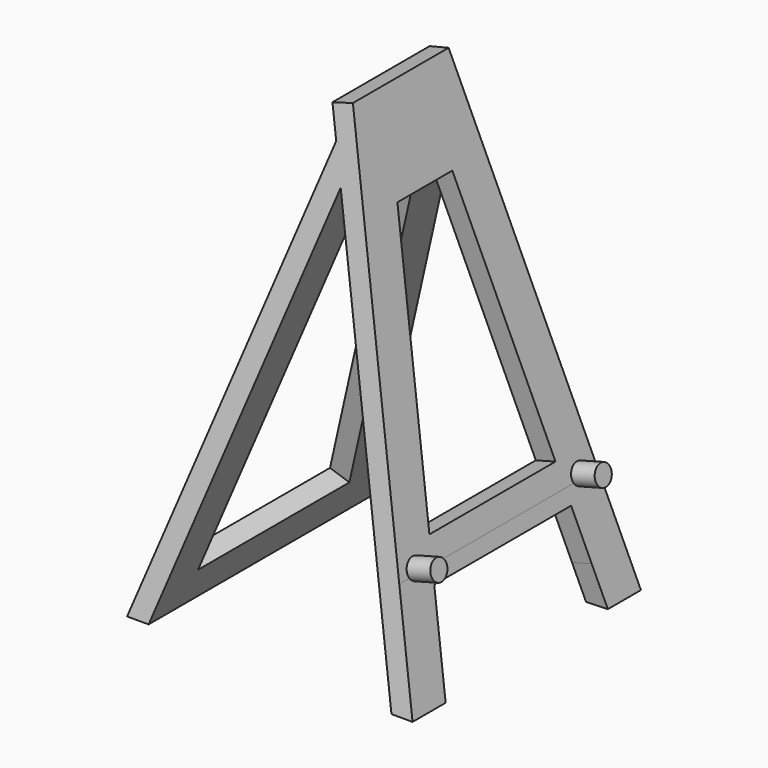
from build123d import *

# Parameters (mm, degrees)
F1_DEPTH = 70
F3_DEPTH = 70.001
F5_DEPTH = 5
F7_DEPTH = 5
F6_R     = 2.5
F8_DEPTH = 6


with BuildPart() as f1:
    # F0 (on Front) → F1 (new body)
    with BuildSketch(Plane.XZ):
        Polygon((64.8236190979, 0), (70, 0), (63.1167820899, 25.6885189599), (39.1096145047, 115.2844881338), (34.2799853733, 113.9903929083), (36.2175250532, 106.7593963813), (0, 0), (5.2798833988, 0), (38.5474912469, 98.0638441664), align=None)
    extrude(amount=F1_DEPTH)

    # F2 (on Right) → F3 (cut, through all)
    with BuildSketch(Plane.YZ):
        Polygon((-31.1044628837, 176.4021748616), (0, 0), (48.4349839389, -5.1851687022), (65.811291337, 203.3304870129), align=None)
        Polygon((-111.5468591452, -12.9745472223), (-70, 0), (-38.8955371163, 176.4021748616), (-111.5468591452, 176.4021748616), align=None)
    extrude(amount=F3_DEPTH, mode=Mode.SUBTRACT)

    # F4 (on face) → F5 (cut)
    with BuildSketch(Plane(origin=(0, 0, 0), x_dir=(0, -1, 0), z_dir=(-0.9469906099, 0, 0.3212612407))):
        Polygon((58.1917434691, 10.0000029223), (42.7067823189, 102.7354300022), (27.2932176811, 102.7354300022), (11.8082565309, 10.0000029223), align=None)
    extrude(amount=-F5_DEPTH, mode=Mode.SUBTRACT)

    # F6 (on face) → F7 (cut)
    with BuildSketch(Plane(origin=(65.3108891325, 0, 17.5), x_dir=(0, 1, 0), z_dir=(0.9659258263, 0, 0.2588190451))):
        Polygon((-10.1440055617, -18.1173331572), (-11.8471934071, -8.1173331572), (-14.0249093092, 4.6687838175), (-55.9750906908, 4.6687838175), (-58.1528065929, -8.1173331572), (-59.8559944383, -18.1173331572), align=None)
        Polygon((-26.5845061685, 78.4104846719), (-43.4154938315, 78.4104846719), (-54.3229984458, 14.3687840231), (-15.6770015542, 14.3687840231), align=None)
    extrude(amount=-F7_DEPTH, mode=Mode.SUBTRACT)

    # F6 (on face) → F8 (join)
    with BuildSketch(Plane(origin=(65.3108891325, 0, 17.5), x_dir=(0, 1, 0), z_dir=(0.9659258263, 0, 0.2588190451))):
        with Locations((-60.195499549, 9.6687838175)):
            Circle(F6_R)
        with Locations((-9.804500451, 9.6687838175)):
            Circle(F6_R)
    extrude(amount=F8_DEPTH)


solid = f1.part
